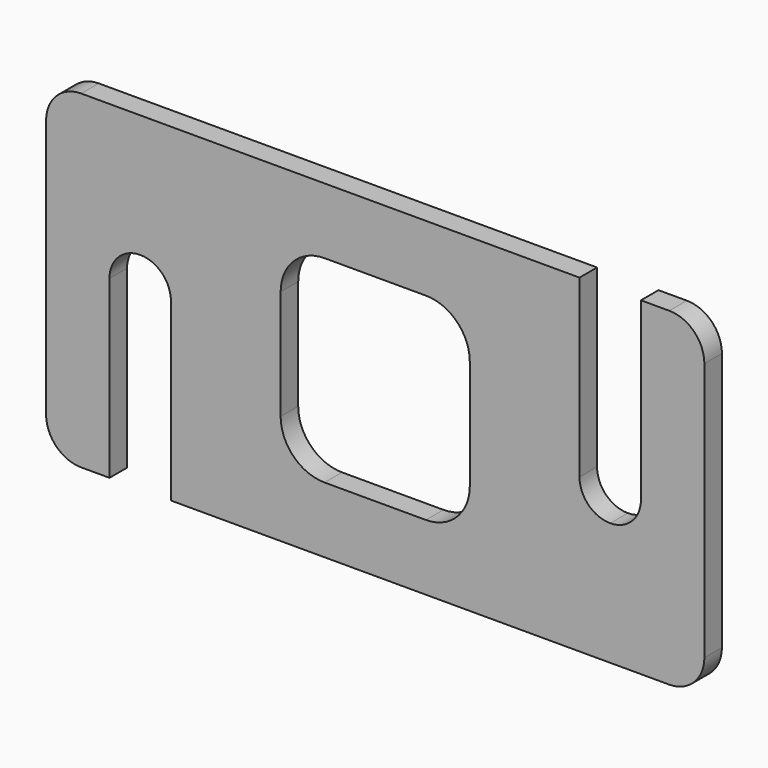
from build123d import *

# Parameters (mm, degrees)
F1_DEPTH = 5


with BuildPart() as f1:
    # F0 (on Front) → F1 (new body)
    with BuildSketch(Plane.XZ):
        with BuildLine():
            ThreePointArc((-75, -29.5), (-72.656854, -35.156854), (-67, -37.5))
            Line((-67, -37.5), (-60.549265, -37.5))
            Line((-60.549265, -37.5), (-60.549265, 2.5))
            ThreePointArc((-60.549265, 2.5), (-58.499013, 7.449747), (-53.549265, 9.5))
            ThreePointArc((-53.549265, 9.5), (-48.599518, 7.449747), (-46.549265, 2.5))
            Line((-46.549265, 2.5), (-46.549265, -37.5))
            Line((-46.549265, -37.5), (67, -37.5))
            ThreePointArc((67, -37.5), (72.656854, -35.156854), (75, -29.5))
            Line((75, -29.5), (75, 29.5))
            ThreePointArc((75, 29.5), (72.656854, 35.156854), (67, 37.5))
            Line((67, 37.5), (60.549265, 37.5))
            Line((60.549265, 37.5), (60.549265, -2.5))
            ThreePointArc((60.549265, -2.5), (58.499013, -7.449747), (53.549265, -9.5))
            ThreePointArc((53.549265, -9.5), (48.599518, -7.449747), (46.549265, -2.5))
            Line((46.549265, -2.5), (46.549265, 37.5))
            Line((46.549265, 37.5), (-67, 37.5))
            ThreePointArc((-67, 37.5), (-72.656854, 35.156854), (-75, 29.5))
            Line((-75, 29.5), (-75, -29.5))
        make_face()
        with BuildLine():
            ThreePointArc((-21.549265, 12.5), (-18.620333, 19.571068), (-11.549265, 22.5))
            Line((-11.549265, 22.5), (11.549265, 22.5))
            ThreePointArc((11.549265, 22.5), (18.620333, 19.571068), (21.549265, 12.5))
            Line((21.549265, 12.5), (21.549265, -12.5))
            ThreePointArc((21.549265, -12.5), (18.620333, -19.571068), (11.549265, -22.5))
            Line((11.549265, -22.5), (-11.549265, -22.5))
            ThreePointArc((-11.549265, -22.5), (-18.620333, -19.571068), (-21.549265, -12.5))
            Line((-21.549265, -12.5), (-21.549265, 12.5))
        make_face(mode=Mode.SUBTRACT)
    extrude(amount=F1_DEPTH)


solid = f1.part
